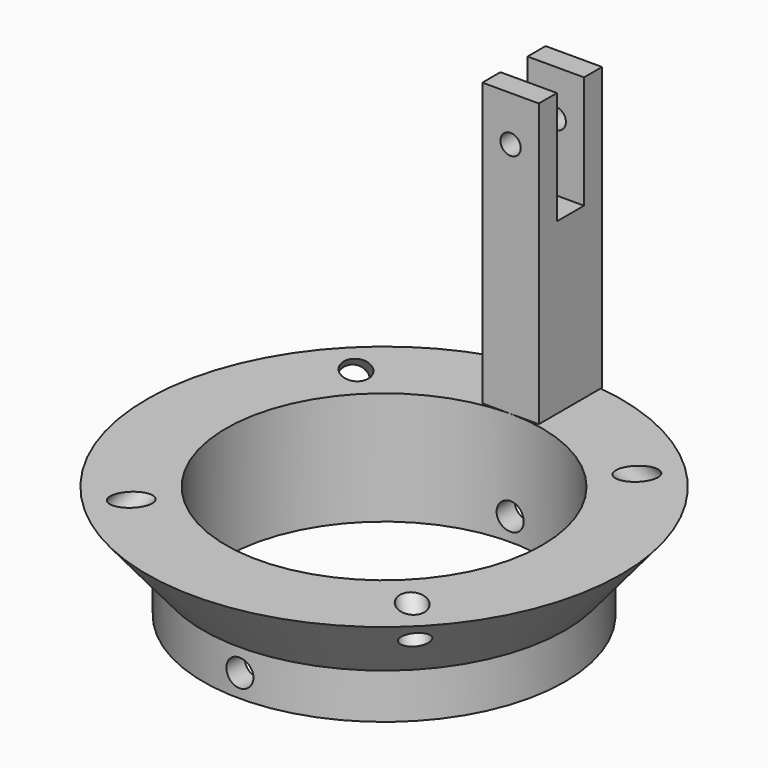
from build123d import *

# Parameters (mm, degrees)
CYLINDER001_R               = 1.2
CYLINDER001_DEPTH           = 10
CYLINDER001_ROLL_ANGLE      = -45
CYLINDER001_PLACEMENT_ANGLE = 45
CYLINDER002_R               = 1.2
CYLINDER002_DEPTH           = 10
CYLINDER002_ROLL_ANGLE      = 45
CYLINDER002_PLACEMENT_ANGLE = -45
CYLINDER003_R               = 1.2
CYLINDER003_DEPTH           = 10
CYLINDER003_ROLL_ANGLE      = 45
CYLINDER003_PLACEMENT_ANGLE = 45
CYLINDER_R                  = 1.2
CYLINDER_DEPTH              = 10
CYLINDER_ROLL_ANGLE         = -45
CYLINDER_PLACEMENT_ANGLE    = -45
PAD_DEPTH                   = 5
SKETCH003_R                 = 0.9
POCKET001_DEPTH             = 7.001
SKETCH001_R                 = 1.2
POCKET_DEPTH                = 38.001


with BuildPart() as cylinder001:
    # Cylinder001 → Cylinder001 (new body)
    with BuildSketch(Plane.XY):
        Circle(CYLINDER001_R)
    extrude(amount=CYLINDER001_DEPTH)


with BuildPart() as cylinder001_1:
    # Cylinder001 roll: moved
    add(cylinder001.part.rotate(Axis((0, 0, 0), (1, 0, 0)), CYLINDER001_ROLL_ANGLE))


with BuildPart() as cylinder001_2:
    # Cylinder001 placement: moved
    add(cylinder001_1.part.moved(Location((14.349242, -14.349242, 7.292893))).rotate(Axis((14.349242, -14.349242, 7.292893), (0, 0, 1)), CYLINDER001_PLACEMENT_ANGLE))


with BuildPart() as cylinder002:
    # Cylinder002 → Cylinder002 (new body)
    with BuildSketch(Plane.XY):
        Circle(CYLINDER002_R)
    extrude(amount=CYLINDER002_DEPTH)


with BuildPart() as cylinder002_1:
    # Cylinder002 roll: moved
    add(cylinder002.part.rotate(Axis((0, 0, 0), (1, 0, 0)), CYLINDER002_ROLL_ANGLE))


with BuildPart() as cylinder002_2:
    # Cylinder002 placement: moved
    add(cylinder002_1.part.moved(Location((14.349242, 14.349242, 7.292893))).rotate(Axis((14.349242, 14.349242, 7.292893), (0, 0, 1)), CYLINDER002_PLACEMENT_ANGLE))


with BuildPart() as cylinder003:
    # Cylinder003 → Cylinder003 (new body)
    with BuildSketch(Plane.XY):
        Circle(CYLINDER003_R)
    extrude(amount=CYLINDER003_DEPTH)


with BuildPart() as cylinder003_1:
    # Cylinder003 roll: moved
    add(cylinder003.part.rotate(Axis((0, 0, 0), (1, 0, 0)), CYLINDER003_ROLL_ANGLE))


with BuildPart() as cylinder003_2:
    # Cylinder003 placement: moved
    add(cylinder003_1.part.moved(Location((-14.349242, 14.349242, 7.292893))).rotate(Axis((-14.349242, 14.349242, 7.292893), (0, 0, 1)), CYLINDER003_PLACEMENT_ANGLE))


with BuildPart() as fusion001:
    # Cylinder → Cylinder (new body)
    with BuildSketch(Plane.XY):
        Circle(CYLINDER_R)
    extrude(amount=CYLINDER_DEPTH)


with BuildPart() as fusion001_1:
    # Cylinder roll: moved
    add(fusion001.part.rotate(Axis((0, 0, 0), (1, 0, 0)), CYLINDER_ROLL_ANGLE))


with BuildPart() as fusion001_2:
    # Cylinder placement: moved
    add(fusion001_1.part.moved(Location((-14.349242, -14.349242, 7.292893))).rotate(Axis((-14.349242, -14.349242, 7.292893), (0, 0, 1)), CYLINDER_PLACEMENT_ANGLE))

    # Fusion001: union Cylinder001, Cylinder002, Cylinder003
    add(cylinder001_2.part)
    add(cylinder002_2.part)
    add(cylinder003_2.part)


with BuildPart() as body001:
    # Sketch002 → Pad (new body)
    with BuildSketch(Plane.YZ):
        Polygon((14, 10), (14, 35), (16, 35), (16, 25), (19, 25), (19, 35), (21, 35), (21, 10), align=None)
    extrude(amount=PAD_DEPTH)

    # Sketch003 (on Face1 of Pad) → Pocket001 (cut, through all)
    with BuildSketch(Plane(origin=(0, 14, 0), x_dir=(0, 0, -1), z_dir=(0, -1, 0))):
        with Locations((-31, 2.5)):
            Circle(SKETCH003_R)
    extrude(amount=-POCKET001_DEPTH, mode=Mode.SUBTRACT)


with BuildPart() as body001_1:
    # Body001 placement: moved
    add(body001.part.moved(Location((-2.5, 0, 0))))


with BuildPart() as cut:
    # Sketch → Revolution (revolve)
    with BuildSketch(Plane.XZ):
        Polygon((16, 4), (16, 0), (14, 0), (14, 10), (21, 10), align=None)
    revolve(axis=Axis((0, 0, 0), (0, 0, 1)))

    # Sketch001 → Pocket (cut, through all)
    with BuildSketch(Plane.XZ.offset(17)):
        with Locations((0, 2)):
            Circle(SKETCH001_R)
    extrude(amount=-POCKET_DEPTH, mode=Mode.SUBTRACT)

    # Fusion: union Body001
    add(body001_1.part)

    # Cut: cut Fusion001
    add(fusion001_2.part, mode=Mode.SUBTRACT)


solid = cut.part
